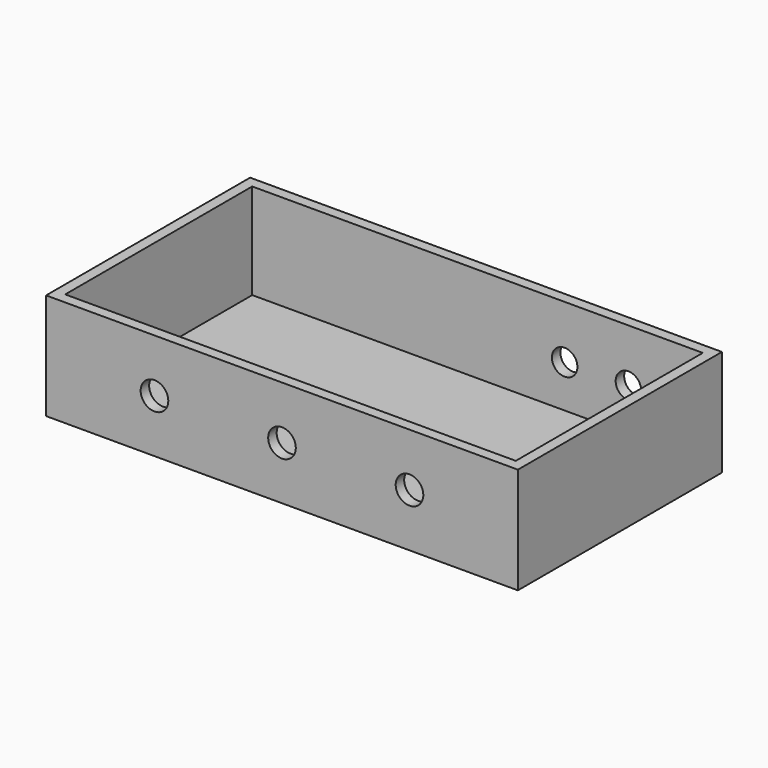
from build123d import *

# Parameters (mm, degrees)
F0_W     = 111
F0_H     = 60
F1_DEPTH = 25
F2_T     = -2.5
F3_R     = 3.25
F4_DEPTH = 30
F5_R     = 3
F6_DEPTH = 30


with BuildPart() as f1:
    # F0 (on Top) → F1 (new body)
    with BuildSketch(Plane.XY):
        Rectangle(F0_W, F0_H)
    extrude(amount=F1_DEPTH)

    # F2
    f2_openings = [f1.faces().sort_by_distance(p)[0] for p in [
        (0, 0, 25),
    ]]
    offset(amount=F2_T, openings=f2_openings)

    # F3 (on Front) → F4 (cut, through all)
    with BuildSketch(Plane.XZ):
        with Locations((-30, 12.5)):
            Circle(F3_R)
        with Locations((30, 12.5)):
            Circle(F3_R)
        with Locations((0, 12.5)):
            Circle(F3_R)
    extrude(amount=F4_DEPTH, mode=Mode.SUBTRACT)

    # F5 (on Front) → F6 (cut, through all)
    with BuildSketch(Plane.XZ):
        with Locations((20.5, 12.5)):
            Circle(F5_R)
        with Locations((35.5, 12.5)):
            Circle(F5_R)
    extrude(amount=-F6_DEPTH, mode=Mode.SUBTRACT)


solid = f1.part
